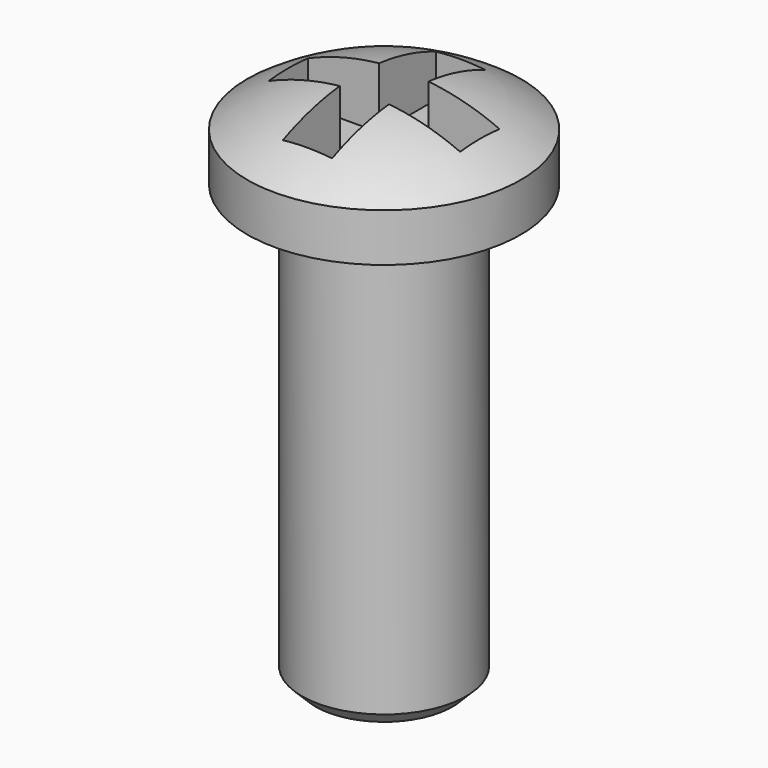
from build123d import *

# Parameters (mm, degrees)
F2_SIZE  = 0.25
F5_DEPTH = 1.16


with BuildPart() as f1:
    # F0 (on Front) → F1 (revolve)
    with BuildSketch(Plane.XZ):
        with BuildLine():
            Line((-2.5, 0), (-1.5, 0))
            Line((-1.5, 0), (-1.5, -8))
            Line((-1.5, -8), (0, -8))
            Line((0, -8), (0, 1.66))
            ThreePointArc((0, 1.66), (-1.309427, 1.460472), (-2.5, 0.88))
            Line((-2.5, 0.88), (-2.5, 0))
        make_face()
    revolve(axis=Axis((0, 0, -3.17), (0, 0, 1)))

    # F2
    f2_edges = [f1.edges().sort_by_distance(p)[0] for p in [
        (1.5, 0, -8),
    ]]
    chamfer(f2_edges, length=F2_SIZE)

    # F4 (on offset) → F5 (cut, through all)
    with BuildSketch(Plane.XY.offset(0.5)):
        Polygon((-0.45, 0.45), (-1.75, 0.45), (-1.75, -0.45), (-0.45, -0.45), (-0.45, -1.75), (0.45, -1.75), (0.45, -0.45), (1.75, -0.45), (1.75, 0.45), (0.45, 0.45), (0.45, 1.75), (-0.45, 1.75), align=None)
    extrude(amount=F5_DEPTH, mode=Mode.SUBTRACT)


solid = f1.part
